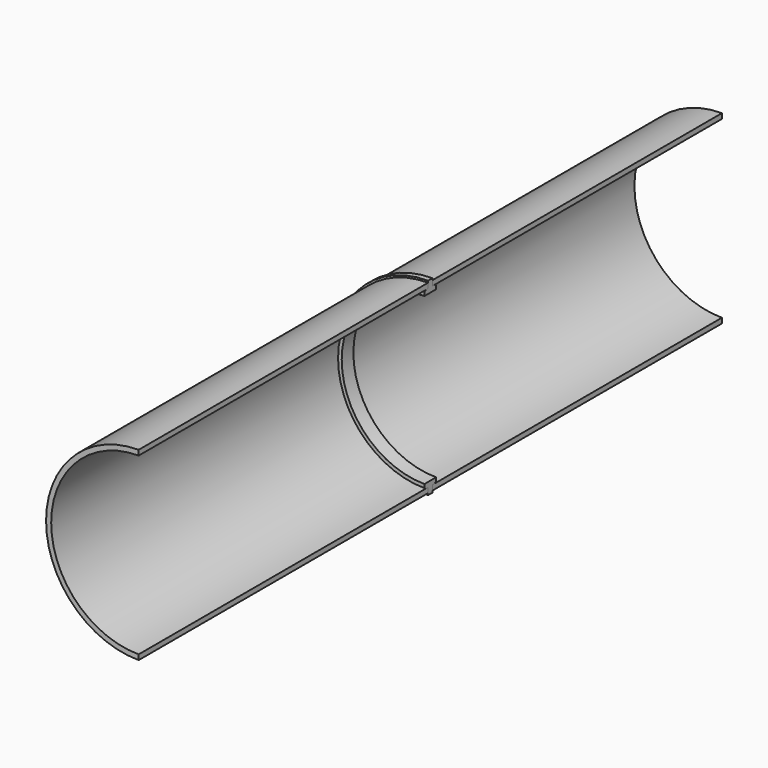
from build123d import *

# Parameters (mm, degrees)
F1_DEPTH = 100
F2_R     = 25.4
F3_DEPTH = 0.75
F5_ANGLE = 180


with BuildPart() as f1:
    # F0 (on Front) → F1 (new body, symmetric)
    with BuildSketch(Plane.XZ):
        with BuildLine():
            Line((0, 24), (0, 25.4))
            ThreePointArc((0, 25.4), (-25.4, 0), (0, -25.4))
            Line((0, -25.4), (0, -24))
            ThreePointArc((0, -24), (-24, 0), (0, 24))
        make_face()
    extrude(amount=F1_DEPTH, both=True)

    # F2 (on Front) → F3 (cut, symmetric)
    with BuildSketch(Plane.XZ):
        Circle(F2_R)
    extrude(amount=F3_DEPTH, both=True, mode=Mode.SUBTRACT)


with BuildPart() as f5:
    # F4 (on Right) → F5 (revolve)
    with BuildSketch(Plane.YZ):
        Polygon((0.75, 25.9), (-0.75, 25.9), (-0.75, 24), (-1.4803847577, 24), (-2, 23.7), (-2, 22.7), (2, 22.7), (2, 23.7), (1.4803847577, 24), (0.75, 24), (0.75, 25.4), align=None)
    revolve(axis=Axis((0, 0, 0), (0, -1, 0)), revolution_arc=F5_ANGLE)


solid = Compound([f1.part, f5.part])
